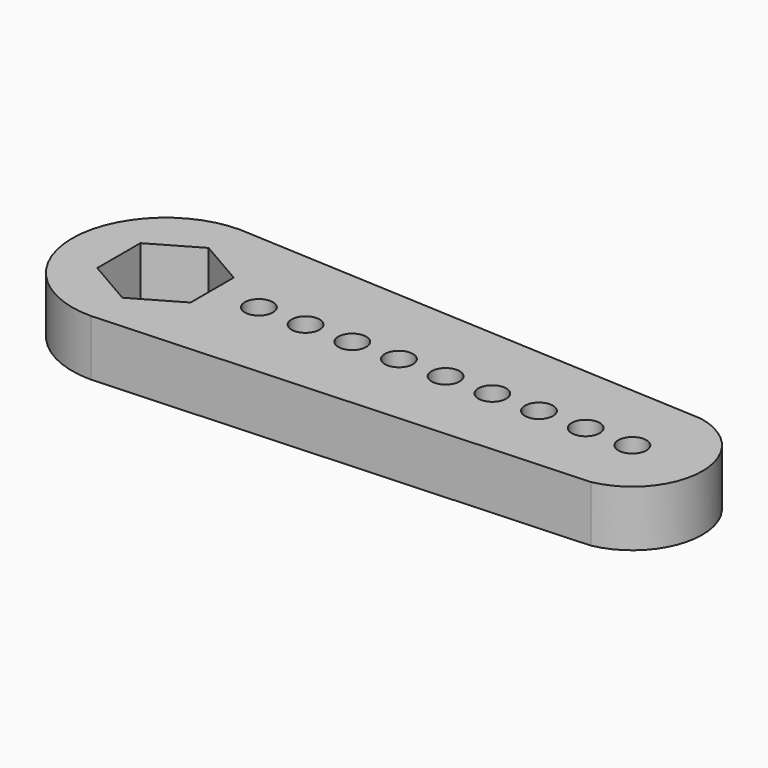
from build123d import *

# Parameters (mm, degrees)
F0_R     = 1.5
F1_DEPTH = 6


with BuildPart() as f1:
    # F0 (on Top) → F1 (new body)
    with BuildSketch(Plane.XY):
        with BuildLine():
            Line((51.466009, 7.355326), (0, 10))
            ThreePointArc((0, 10), (-10, 0), (0, -10))
            Line((0, -10), (51.466009, -7.355326))
            ThreePointArc((51.466009, -7.355326), (57.5, 0), (51.466009, 7.355326))
        make_face()
        Polygon((-5, 2.886751), (0, 5.773503), (5, 2.886751), (5, -2.886751), (0, -5.773503), (-5, -2.886751), align=None, mode=Mode.SUBTRACT)
        with Locations((10, 0)):
            Circle(F0_R, mode=Mode.SUBTRACT)
        with Locations((15, 0)):
            Circle(F0_R, mode=Mode.SUBTRACT)
        with Locations((20, 0)):
            Circle(F0_R, mode=Mode.SUBTRACT)
        with Locations((25, 0)):
            Circle(F0_R, mode=Mode.SUBTRACT)
        with Locations((30, 0)):
            Circle(F0_R, mode=Mode.SUBTRACT)
        with Locations((35, 0)):
            Circle(F0_R, mode=Mode.SUBTRACT)
        with Locations((40, 0)):
            Circle(F0_R, mode=Mode.SUBTRACT)
        with Locations((45, 0)):
            Circle(F0_R, mode=Mode.SUBTRACT)
        with Locations((50, 0)):
            Circle(F0_R, mode=Mode.SUBTRACT)
    extrude(amount=F1_DEPTH)


solid = f1.part
